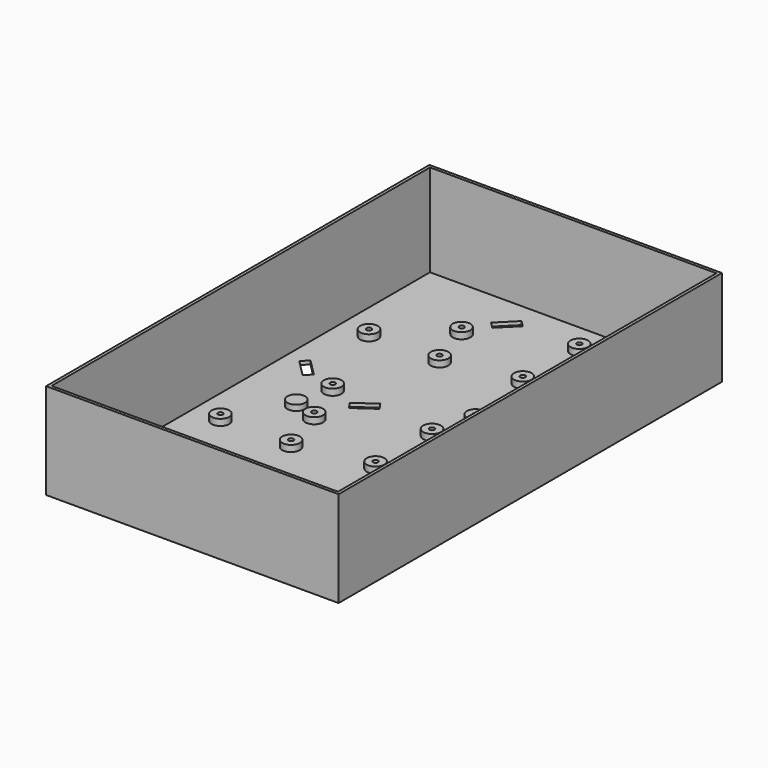
from build123d import *

# Parameters (mm, degrees)
SKETCH_W        = 116
SKETCH_H        = 190
PAD_DEPTH       = 38
SKETCH001_W     = 113.6
SKETCH001_H     = 187.6
POCKET_DEPTH    = 36.6
SKETCH037_R     = 1.25
POCKET007_DEPTH = 38.001
SKETCH002_R     = 3.5
SKETCH002_R_2   = 1
PAD031_DEPTH    = 2.5
SKETCH036_R     = 3.5
PAD032_DEPTH    = 2.2
SKETCH053_R     = 1.15
POCKET016_DEPTH = 3
POCKET017_DEPTH = 1.4


with BuildPart() as part:
    # Sketch → Pad (new body)
    with BuildSketch(Plane.XY):
        Rectangle(SKETCH_W, SKETCH_H)
    extrude(amount=PAD_DEPTH)

    # Sketch001 (on DatumPlane) → Pocket (cut)
    with BuildSketch(Plane.XY.offset(38)):
        Rectangle(SKETCH001_W, SKETCH001_H)
    extrude(amount=-POCKET_DEPTH, mode=Mode.SUBTRACT)

    # Sketch037 → Pocket007 (cut, through all)
    with BuildSketch(Plane(origin=(0, 0, 0), x_dir=(1, 0, 0), z_dir=(0, 0, -1))):
        with Locations((33.2, 2)):
            Circle(SKETCH037_R)
        with Locations((-33.2, 2)):
            Circle(SKETCH037_R)
        with Locations((33.2, 47)):
            Circle(SKETCH037_R)
        with Locations((-33.2, 47)):
            Circle(SKETCH037_R)
    extrude(amount=-POCKET007_DEPTH, mode=Mode.SUBTRACT)

    # Sketch002 (on Face15 of Pocket007) → Pad031 (join)
    with BuildSketch(Plane.XY.offset(1.4)):
        with Locations((12.249996, 81.49999)):
            Circle(SKETCH002_R)
        with Locations((12.249996, 81.49999)):
            Circle(SKETCH002_R_2, mode=Mode.SUBTRACT)
        with Locations((12.249996, 53.49999)):
            Circle(SKETCH002_R)
        with Locations((12.249996, 53.49999)):
            Circle(SKETCH002_R_2, mode=Mode.SUBTRACT)
        with Locations((-23.250004, 67.49999)):
            Circle(SKETCH002_R)
        with Locations((-23.250004, 67.49999)):
            Circle(SKETCH002_R_2, mode=Mode.SUBTRACT)
        with Locations((30.749948, 59.999954)):
            Circle(SKETCH002_R)
        with Locations((30.749948, 59.999954)):
            Circle(SKETCH002_R_2, mode=Mode.SUBTRACT)
        with Locations((44.749948, 24.499954)):
            Circle(SKETCH002_R)
        with Locations((44.749948, 24.499954)):
            Circle(SKETCH002_R_2, mode=Mode.SUBTRACT)
        with Locations((16.749948, 24.499954)):
            Circle(SKETCH002_R)
        with Locations((16.749948, 24.499954)):
            Circle(SKETCH002_R_2, mode=Mode.SUBTRACT)
        with Locations((30.749994, -13.50001)):
            Circle(SKETCH002_R)
        with Locations((30.749994, -13.50001)):
            Circle(SKETCH002_R_2, mode=Mode.SUBTRACT)
        with Locations((44.749994, -49.00001)):
            Circle(SKETCH002_R)
        with Locations((44.749994, -49.00001)):
            Circle(SKETCH002_R_2, mode=Mode.SUBTRACT)
        with Locations((16.749994, -49.00001)):
            Circle(SKETCH002_R)
        with Locations((16.749994, -49.00001)):
            Circle(SKETCH002_R_2, mode=Mode.SUBTRACT)
        with Locations((22.749996, -67.500006)):
            Circle(SKETCH002_R)
        with Locations((22.749996, -67.500006)):
            Circle(SKETCH002_R_2, mode=Mode.SUBTRACT)
        with Locations((-12.750004, -53.500006)):
            Circle(SKETCH002_R)
        with Locations((-12.750004, -53.500006)):
            Circle(SKETCH002_R_2, mode=Mode.SUBTRACT)
        with Locations((-12.750004, -81.500006)):
            Circle(SKETCH002_R)
        with Locations((-12.750004, -81.500006)):
            Circle(SKETCH002_R_2, mode=Mode.SUBTRACT)
        with Locations((-31.249992, -60.000005)):
            Circle(SKETCH002_R)
        with Locations((-31.249992, -60.000005)):
            Circle(SKETCH002_R_2, mode=Mode.SUBTRACT)
        with Locations((-45.249992, -24.500005)):
            Circle(SKETCH002_R)
        with Locations((-45.249992, -24.500005)):
            Circle(SKETCH002_R_2, mode=Mode.SUBTRACT)
        with Locations((-17.249992, -24.500005)):
            Circle(SKETCH002_R)
        with Locations((-17.249992, -24.500005)):
            Circle(SKETCH002_R_2, mode=Mode.SUBTRACT)
        with Locations((-44.749987, 48.499969)):
            Circle(SKETCH002_R)
        with Locations((-44.749987, 48.499969)):
            Circle(SKETCH002_R_2, mode=Mode.SUBTRACT)
        with Locations((-16.749987, 48.499969)):
            Circle(SKETCH002_R)
        with Locations((-16.749987, 48.499969)):
            Circle(SKETCH002_R_2, mode=Mode.SUBTRACT)
        with Locations((-30.749987, 12.999969)):
            Circle(SKETCH002_R)
        with Locations((-30.749987, 12.999969)):
            Circle(SKETCH002_R_2, mode=Mode.SUBTRACT)
        with Locations((12.249996, 8.49999)):
            Circle(SKETCH002_R)
        with Locations((12.249996, 8.49999)):
            Circle(SKETCH002_R_2, mode=Mode.SUBTRACT)
        with Locations((12.249996, -19.50001)):
            Circle(SKETCH002_R)
        with Locations((12.249996, -19.50001)):
            Circle(SKETCH002_R_2, mode=Mode.SUBTRACT)
        with Locations((-23.250004, -5.50001)):
            Circle(SKETCH002_R)
        with Locations((-23.250004, -5.50001)):
            Circle(SKETCH002_R_2, mode=Mode.SUBTRACT)
    extrude(amount=PAD031_DEPTH)

    # Sketch036 (on Face15 of Pad031) → Pad032 (join)
    with BuildSketch(Plane.XY.offset(1.4)):
        with Locations((33.2, -2)):
            Circle(SKETCH036_R)
        with Locations((-33.2, -2)):
            Circle(SKETCH036_R)
        with Locations((33.2, -47)):
            Circle(SKETCH036_R)
        with Locations((-33.2, -47)):
            Circle(SKETCH036_R)
    extrude(amount=PAD032_DEPTH)

    # Sketch053 (on Face4 of Pad032) → Pocket016 (cut)
    with BuildSketch(Plane(origin=(0, 0, 0), x_dir=(1, 0, 0), z_dir=(0, 0, -1))):
        with Locations((-33.2, 47)):
            Circle(SKETCH053_R)
        with Locations((33.2, 47)):
            Circle(SKETCH053_R)
        with Locations((33.2, 2)):
            Circle(SKETCH053_R)
        with Locations((-33.2, 2)):
            Circle(SKETCH053_R)
    extrude(amount=-POCKET016_DEPTH, mode=Mode.SUBTRACT)

    # Sketch076 (on Face19 of Pocket016) → Pocket017 (cut)
    with BuildSketch(Plane.XY.offset(1.4)):
        Polygon((-51.224859, 22.025095), (-44.507345, 15.30758), (-42.032471, 17.782454), (-48.749985, 24.499969), align=None)
        Polygon((-51.724864, -50.974879), (-45.00735, -57.692393), (-42.53246, -55.217536), (-49.24999, -48.500005), align=None)
        Polygon((11.249996, -85.500006), (17.96751, -78.782491), (20.442384, -81.257365), (13.724869, -87.974879), align=None)
        Polygon((42.032481, -18.282496), (48.749995, -25.00001), (51.224869, -22.525137), (44.507354, -15.807622), align=None)
        Polygon((42.032435, 55.217468), (48.749949, 48.499953), (51.224823, 50.974827), (44.507309, 57.692341), align=None)
        Polygon((-19.531949, 7.051014), (-11.750004, 12.49999), (-13.757522, 15.367023), (-21.539466, 9.918046), align=None)
        Polygon((-18.467519, 76.782476), (-11.750004, 83.49999), (-14.224878, 85.974864), (-20.942392, 79.25735), align=None)
    extrude(amount=-POCKET017_DEPTH, mode=Mode.SUBTRACT)


with BuildPart() as part_1:
    # Body placement: moved
    add(part.part.moved(Location((0, 5, 0))))


solid = part_1.part
